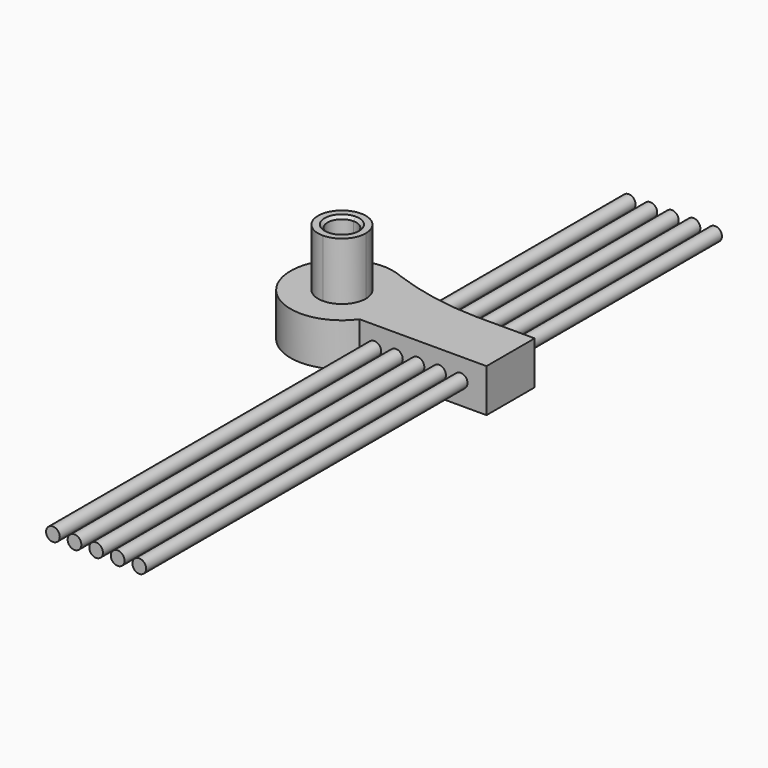
from build123d import *

# Parameters (mm, degrees)
F1_DEPTH      = 30
F2_DEPTH      = 70
F3_SIZE       = 2
F4_R          = 4.7560570879
F5_DEPTH      = 300
F5_DEPTH_BACK = 200


with BuildPart() as f1:
    # F0 (on Top) → F1 (new body)
    with BuildSketch(Plane.XY):
        with BuildLine():
            ThreePointArc((-48.0539615262, 34.1261437092), (-92.4493983085, -11.341099035), (-29.6257035051, -20.9018699825))
            Line((-29.6257035051, -20.9018699825), (-58.5841163993, -20.9018699825))
            Line((-58.5841163993, -20.9018699825), (-58.5841163993, -16.5661355414))
            ThreePointArc((-58.5841163993, -16.5661355414), (-75.1502519407, 0), (-58.5841163993, 16.5661355414))
            Line((-58.5841163993, 16.5661355414), (-58.5841163993, 20.9018699825))
            Line((-58.5841163993, 20.9018699825), (-29.6257035051, 20.9018699825))
            ThreePointArc((-29.6257035051, 20.9018699825), (-35.8864992973, 27.5734659411), (-43.6369066992, 32.4354554199))
            ThreePointArc((-43.6369066992, 32.4354554199), (-45.8507622784, 33.2668793167), (-48.0539615262, 34.1261437092))
        make_face()
        with BuildLine():
            Line((-58.5841163993, -20.9018699825), (-29.6257035051, -20.9018699825))
            ThreePointArc((-29.6257035051, -20.9018699825), (-24.6010782812, -10.9832129352), (-22.8702836994, 0))
            ThreePointArc((-22.8702836994, 0), (-24.6010782812, 10.9832129352), (-29.6257035051, 20.9018699825))
            Line((-29.6257035051, 20.9018699825), (-58.5841163993, 20.9018699825))
            Line((-58.5841163993, 20.9018699825), (-58.5841163993, 16.5661355414))
            ThreePointArc((-58.5841163993, 16.5661355414), (-46.8700896199, 11.7140267794), (-42.0179808579, 0))
            ThreePointArc((-42.0179808579, 0), (-46.8700896199, -11.7140267794), (-58.5841163993, -16.5661355414))
            Line((-58.5841163993, -16.5661355414), (-58.5841163993, -20.9018699825))
        make_face()
        with BuildLine():
            Line((-29.6257035051, 20.9018699825), (17.8047399968, 20.9018699825))
            ThreePointArc((17.8047399968, 20.9018699825), (-13.3998865309, 24.0913493238), (-43.6369066992, 32.4354554199))
            ThreePointArc((-43.6369066992, 32.4354554199), (-35.8864992973, 27.5734659411), (-29.6257035051, 20.9018699825))
        make_face()
        with BuildLine():
            Line((-29.6257035051, -20.9018699825), (58.5841163993, -20.9018699825))
            Line((58.5841163993, -20.9018699825), (58.5841163993, 20.9018699825))
            Line((58.5841163993, 20.9018699825), (17.8047399968, 20.9018699825))
            Line((17.8047399968, 20.9018699825), (-29.6257035051, 20.9018699825))
            ThreePointArc((-29.6257035051, 20.9018699825), (-24.6010782812, 10.9832129352), (-22.8702836994, 0))
            ThreePointArc((-22.8702836994, 0), (-24.6010782812, -10.9832129352), (-29.6257035051, -20.9018699825))
        make_face()
    extrude(amount=F1_DEPTH)

    # F0 (on Top) → F2 (join)
    with BuildSketch(Plane.XY):
        with BuildLine():
            ThreePointArc((-58.5841163993, 16.5661355414), (-75.1502519407, 0), (-58.5841163993, -16.5661355414))
            Line((-58.5841163993, -16.5661355414), (-58.5841163993, -10))
            ThreePointArc((-58.5841163993, -10), (-68.5841163993, 0), (-58.5841163993, 10))
            Line((-58.5841163993, 10), (-58.5841163993, 16.5661355414))
        make_face()
        with BuildLine():
            Line((-58.5841163993, -10), (-58.5841163993, -16.5661355414))
            ThreePointArc((-58.5841163993, -16.5661355414), (-46.8700896199, -11.7140267794), (-42.0179808579, 0))
            ThreePointArc((-42.0179808579, 0), (-46.8700896199, 11.7140267794), (-58.5841163993, 16.5661355414))
            Line((-58.5841163993, 16.5661355414), (-58.5841163993, 10))
            ThreePointArc((-58.5841163993, 10), (-51.5130485874, 7.0710678119), (-48.5841163993, 0))
            ThreePointArc((-48.5841163993, 0), (-51.5130485874, -7.0710678119), (-58.5841163993, -10))
        make_face()
    extrude(amount=F2_DEPTH)

    # F3
    f3_edges = [f1.edges().sort_by_distance(p)[0] for p in [
        (-58.584116, -10, 70),
    ]]
    chamfer(f3_edges, length=F3_SIZE)


with BuildPart() as f5:
    # F4 (on Front) → F5 (new body, two sides)
    with BuildSketch(Plane.XZ) as f5_sk:
        with Locations((-19.3639267236, 15.3084117919)):
            Circle(F4_R)
    extrude(amount=F5_DEPTH)
    extrude(f5_sk.sketch, amount=-F5_DEPTH_BACK)


with BuildPart() as f5b:
    # F4 (on Front) → F5, piece 2 (new body, two sides)
    with BuildSketch(Plane.XZ) as f5_2_sk:
        with Locations((-4.3639267236, 15.3084117919)):
            Circle(F4_R)
    extrude(amount=F5_DEPTH)
    extrude(f5_2_sk.sketch, amount=-F5_DEPTH_BACK)


with BuildPart() as f5c:
    # F4 (on Front) → F5, piece 3 (new body, two sides)
    with BuildSketch(Plane.XZ) as f5_3_sk:
        with Locations((10.6360732764, 15.3084117919)):
            Circle(F4_R)
    extrude(amount=F5_DEPTH)
    extrude(f5_3_sk.sketch, amount=-F5_DEPTH_BACK)


with BuildPart() as f5d:
    # F4 (on Front) → F5, piece 4 (new body, two sides)
    with BuildSketch(Plane.XZ) as f5_4_sk:
        with Locations((25.6360732764, 15.3084117919)):
            Circle(F4_R)
    extrude(amount=F5_DEPTH)
    extrude(f5_4_sk.sketch, amount=-F5_DEPTH_BACK)


with BuildPart() as f5e:
    # F4 (on Front) → F5, piece 5 (new body, two sides)
    with BuildSketch(Plane.XZ) as f5_5_sk:
        with Locations((40.6360732764, 15.3084117919)):
            Circle(F4_R)
    extrude(amount=F5_DEPTH)
    extrude(f5_5_sk.sketch, amount=-F5_DEPTH_BACK)


solid = Compound([f1.part, f5.part, f5b.part, f5c.part, f5d.part, f5e.part])
